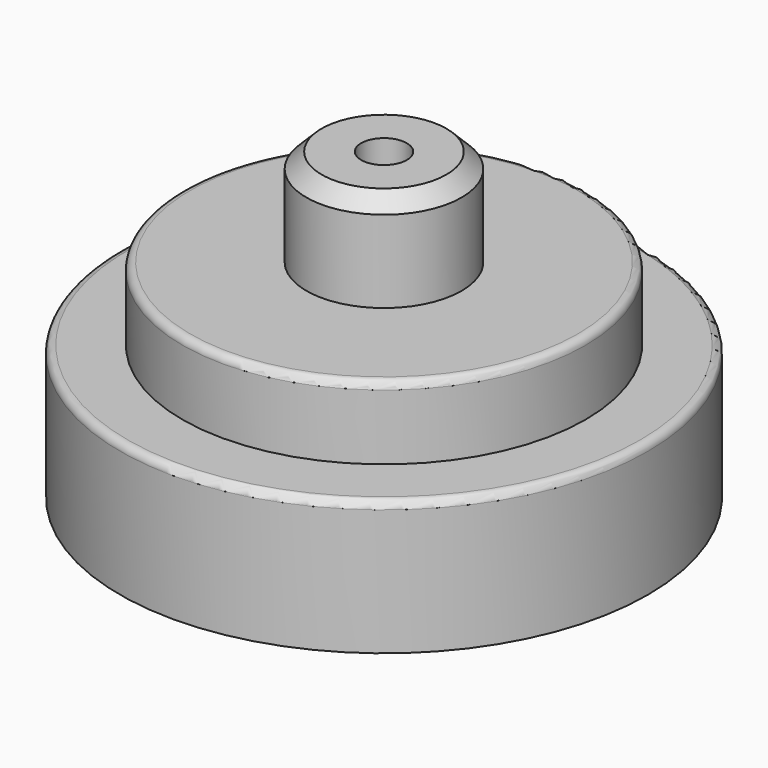
from build123d import *

# Parameters (mm, degrees)
F0_R     = 17.35
F0_R_2   = 13.25
F1_DEPTH = 8.8
F0_R_3   = 5.1
F2_DEPTH = 13.6
F0_R_4   = 1.5
F3_DEPTH = 20
F4_R     = 0.5
F5_R     = 0.5
F6_SIZE  = 1


with BuildPart() as f1:
    # F0 (on Top) → F1 (new body)
    with BuildSketch(Plane.XY):
        Circle(F0_R)
        Circle(F0_R_2, mode=Mode.SUBTRACT)
    extrude(amount=F1_DEPTH)

    # F0 (on Top) → F2 (join)
    with BuildSketch(Plane.XY):
        Circle(F0_R_2)
        Circle(F0_R_3, mode=Mode.SUBTRACT)
    extrude(amount=F2_DEPTH)

    # F4
    f4_edges = [f1.edges().sort_by_distance(p)[0] for p in [
        (-13.25, 0, 13.6),
    ]]
    fillet(f4_edges, radius=F4_R)

    # F5
    f5_edges = [f1.edges().sort_by_distance(p)[0] for p in [
        (-17.35, 0, 8.8),
    ]]
    fillet(f5_edges, radius=F5_R)


with BuildPart() as f3:
    # F0 (on Top) → F3 (new body)
    with BuildSketch(Plane.XY):
        Circle(F0_R_3)
        Circle(F0_R_4, mode=Mode.SUBTRACT)
    extrude(amount=F3_DEPTH)

    # F6
    f6_edges = [f3.edges().sort_by_distance(p)[0] for p in [
        (-5.1, 0, 20),
    ]]
    chamfer(f6_edges, length=F6_SIZE)


solid = Compound([f1.part, f3.part])
